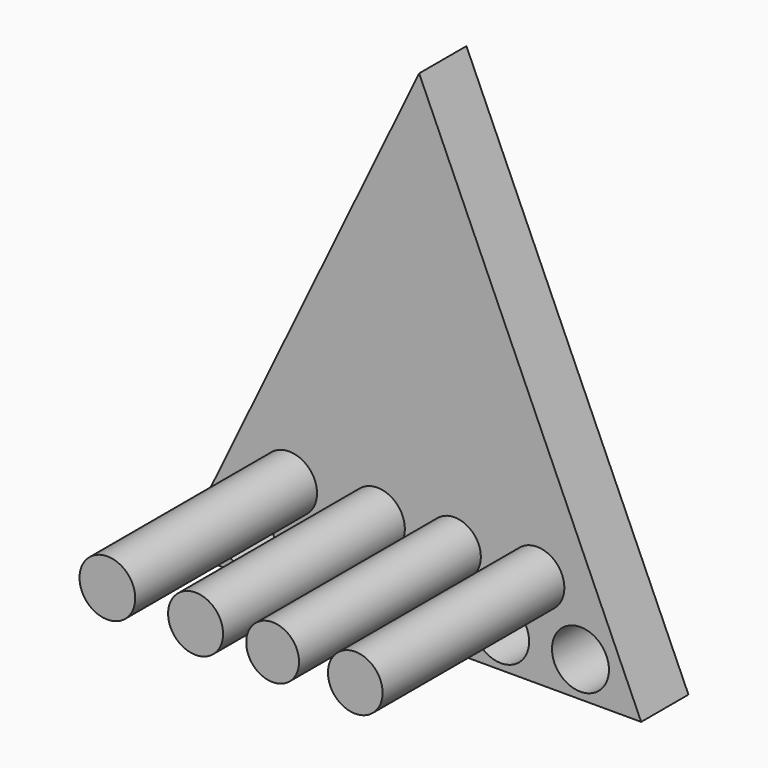
from build123d import *

# Parameters (mm, degrees)
F0_R     = 6.534864
F0_R_2   = 6.282969
F0_R_3   = 6.276635
F0_R_4   = 6.292654
F0_R_5   = 6.369635
F1_DEPTH = 13.208
F2_R     = 6.229918
F2_R_2   = 6.146384
F2_R_3   = 5.906937
F2_R_4   = 6.107717
F3_DEPTH = 50.8


with BuildPart() as f1:
    # F0 (on Front) → F1 (new body)
    with BuildSketch(Plane.XZ):
        Polygon((49.634553, -55.456817), (0, 56.03813), (-53.755101, -55.415485), align=None)
        with Locations((-38.726408, -47.558632)):
            Circle(F0_R, mode=Mode.SUBTRACT)
        with Locations((-19.721398, -47.805447)):
            Circle(F0_R_2, mode=Mode.SUBTRACT)
        with Locations((0, -48.299085)):
            Circle(F0_R_3, mode=Mode.SUBTRACT)
        with Locations((18.288624, -47.805447)):
            Circle(F0_R_4, mode=Mode.SUBTRACT)
        with Locations((36.05954, -47.558632)):
            Circle(F0_R_5, mode=Mode.SUBTRACT)
    extrude(amount=F1_DEPTH)

    # F2 (on face) → F3 (join)
    with BuildSketch(Plane.XZ.offset(13.208)):
        with Locations((-29.05681, -34.037977)):
            Circle(F2_R)
        with Locations((-9.339688, -34.660622)):
            Circle(F2_R_2)
        with Locations((7.886847, -34.660622)):
            Circle(F2_R_3)
        with Locations((26.358679, -34.660622)):
            Circle(F2_R_4)
    extrude(amount=F3_DEPTH)


solid = f1.part
